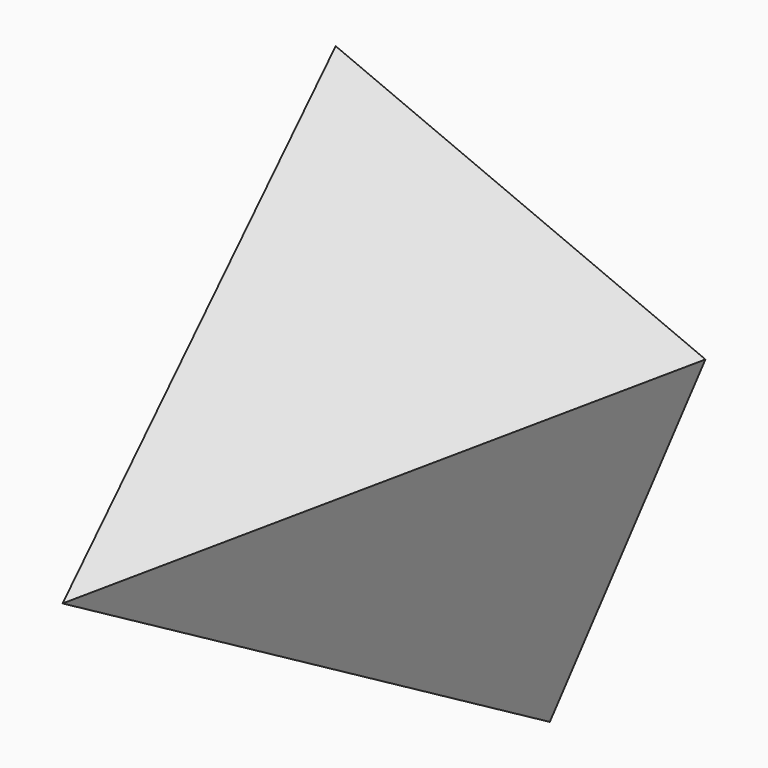
from build123d import *


with BuildPart() as f3:
    # F0 (on Front) → F3 section 0
    with BuildSketch(Plane.XZ, mode=Mode.PRIVATE) as f3_s0:
        Polygon((10.930329, -26.815737), (26.815737, 10.930329), (-10.930329, 26.815737), (-26.815737, -10.930329), align=None)
    loft([f3_s0.sketch, Vertex(0, -48.514, 0)])


solid = f3.part
